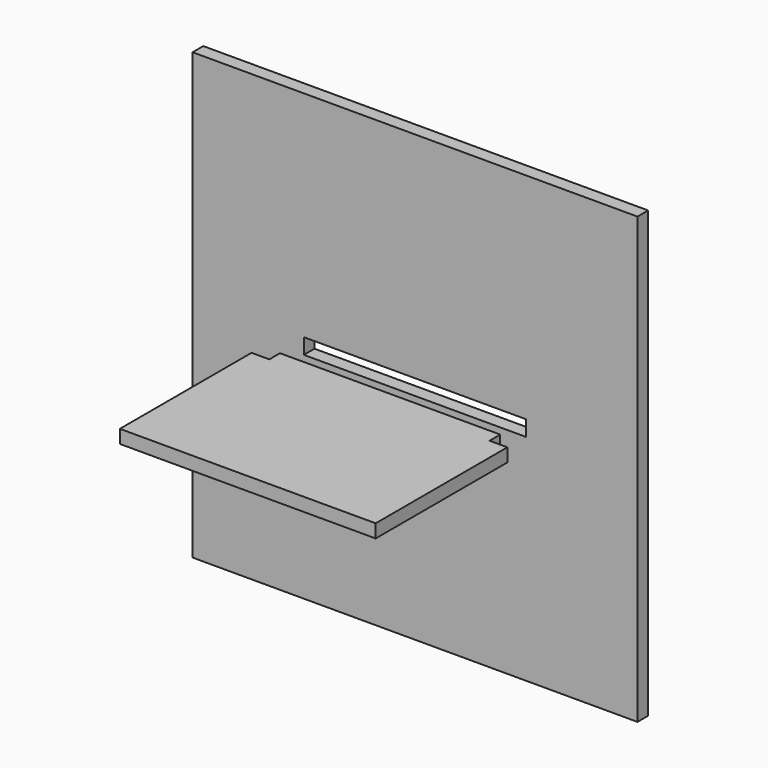
from build123d import *

# Parameters (mm, degrees)
F0_W     = 100
F0_H     = 100
F0_W_2   = 50
F0_H_2   = 3.5
F1_DEPTH = 3
F3_W     = 49.5
F3_H     = 3
F4_DEPTH = 40
F5_W     = 4
F5_H     = 3
F6_DEPTH = 37


with BuildPart() as f1:
    # F0 (on Front) → F1 (new body)
    with BuildSketch(Plane.XZ):
        Rectangle(F0_W, F0_H)
        Rectangle(F0_W_2, F0_H_2, mode=Mode.SUBTRACT)
    extrude(amount=F1_DEPTH)


with BuildPart() as f4:
    # F3 (on offset) → F4 (new body)
    with BuildSketch(Plane.XZ.offset(10)):
        Rectangle(F3_W, F3_H)
    extrude(amount=F4_DEPTH)

    # F5 (on face) → F6 (join)
    with BuildSketch(Plane.XZ.offset(50)):
        with Locations((-26.75, 0)):
            Rectangle(F5_W, F5_H)
        with Locations((26.75, 0)):
            Rectangle(F5_W, F5_H)
    extrude(amount=-F6_DEPTH)


solid = Compound([f1.part, f4.part])
